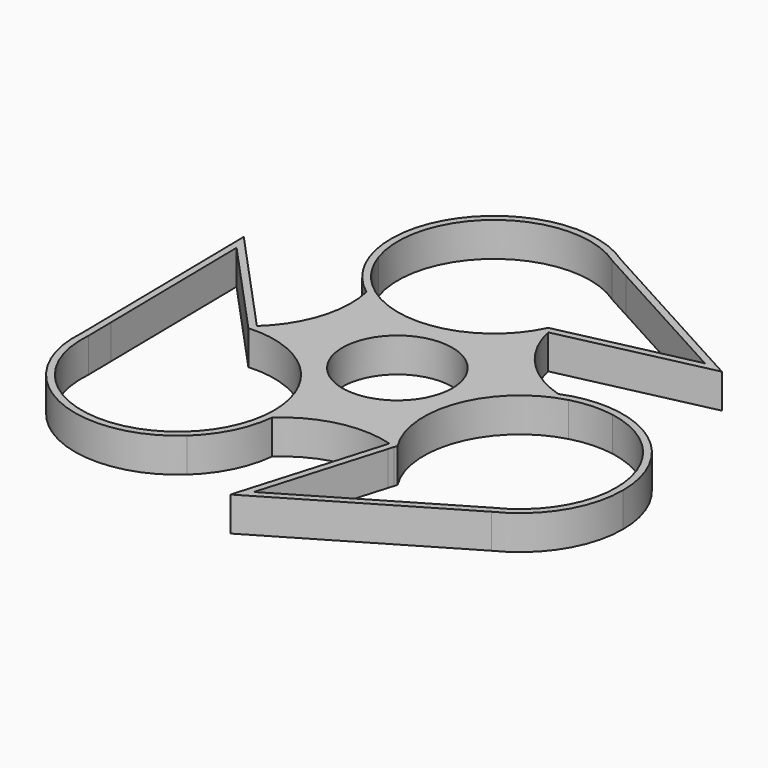
from build123d import *

# Parameters (mm, degrees)
F0_R     = 8
F1_DEPTH = 5


with BuildPart() as f1:
    # F0 (on Top) → F1 (new body)
    with BuildSketch(Plane.XY):
        with BuildLine():
            ThreePointArc((38.8490344373, -7.4982368866), (35.8718628785, 1.471244496), (28.1221549341, 6.8802345627))
            ThreePointArc((28.1221549341, 6.8802345627), (27.2226565904, 6.5535105265), (26.3041545683, 6.2848101329))
            ThreePointArc((26.3041545683, 6.2848101329), (34.5815011117, 1.4914326892), (37.8490344373, -7.4982368866))
            ThreePointArc((37.8490344373, -7.4982368866), (35.7302878123, -14.9033579686), (30.0153461175, -20.0671111506))
            Line((30.0153461175, -20.0671111506), (26.2122119316, -22.3109136241))
            ThreePointArc((26.2122119316, -22.3109136241), (28.4028713862, -21.790282543), (30.4909167926, -20.9476011385))
            ThreePointArc((30.4909167926, -20.9476011385), (36.5892902301, -15.41567854), (38.8490344373, -7.4982368866))
        make_face()
        with BuildLine():
            ThreePointArc((11.6354406408, -16.2061715771), (11.2656060513, -15.6626309275), (10.919943616, -15.1034068738))
            Line((10.919943616, -15.1034068738), (4.6527002207, -36.1918316662))
            Line((4.6527002207, -36.1918316662), (30.4909167926, -20.9476011385))
            ThreePointArc((30.4909167926, -20.9476011385), (28.4028713862, -21.790282543), (26.2122119316, -22.3109136241))
            Line((26.2122119316, -22.3109136241), (6.3361573488, -34.0375417836))
            Line((6.3361573488, -34.0375417836), (11.6354406408, -16.2061715771))
        make_face()
        with BuildLine():
            ThreePointArc((28.1221549341, 6.8802345627), (23.1634660922, 7.4860881247), (18.2808163885, 6.4299700246))
            ThreePointArc((18.2808163885, 6.4299700246), (19.2063911412, 6.1867474035), (20.1455918313, 6.0030413071))
            ThreePointArc((20.1455918313, 6.0030413071), (23.2091706485, 6.4871331239), (26.3041545683, 6.2848101329))
            ThreePointArc((26.3041545683, 6.2848101329), (27.2226565904, 6.5535105265), (28.1221549341, 6.8802345627))
        make_face()
        with BuildLine():
            ThreePointArc((11.8690019815, -15.4202693139), (11.397115524, -15.25392267), (10.919943616, -15.1034068738))
            ThreePointArc((10.919943616, -15.1034068738), (11.2656060513, -15.6626309275), (11.6354406408, -16.2061715771))
            Line((11.6354406408, -16.2061715771), (11.8690019815, -15.4202693139))
        make_face()
        with BuildLine():
            ThreePointArc((20.1455918313, 6.0030413071), (19.2063911412, 6.1867474035), (18.2808163885, 6.4299700246))
            ThreePointArc((18.2808163885, 6.4299700246), (9.655402449, -2.646349524), (10.919943616, -15.1034068738))
            ThreePointArc((10.919943616, -15.1034068738), (11.397115524, -15.25392267), (11.8690019815, -15.4202693139))
            Line((11.8690019815, -15.4202693139), (12.0049821529, -14.9627144628))
            ThreePointArc((12.0049821529, -14.9627144628), (10.7982920028, -2.4308784123), (20.1455918313, 6.0030413071))
        make_face()
        with BuildLine():
            Line((26.5784435042, 22.7285549449), (8.4393064839, 18.6917133525))
            ThreePointArc((8.4393064839, 18.6917133525), (8.1876964566, 18.1152942206), (7.9121440123, 17.5499293192))
            Line((7.9121440123, 17.5499293192), (29.3867735594, 22.3290804795))
            Line((29.3867735594, 22.3290804795), (3.0820072992, 36.7533403216))
            ThreePointArc((3.0820072992, 36.7533403216), (4.7192641816, 35.4472223277), (6.158636429, 33.9257881863))
            Line((6.158636429, 33.9257881863), (26.5784435042, 22.7285549449))
        make_face()
        with BuildLine():
            ThreePointArc((7.9121440123, 17.5499293192), (8.1876964566, 18.1152942206), (8.4393064839, 18.6917133525))
            Line((8.4393064839, 18.6917133525), (7.7274834193, 18.5332980458))
            ThreePointArc((7.7274834193, 18.5332980458), (7.8116121335, 18.0400735592), (7.9121440123, 17.5499293192))
        make_face()
        with BuildLine():
            ThreePointArc((-14.4218573571, 12.3962462122), (-2.0581580843, 9.7870747046), (7.9121440123, 17.5499293192))
            ThreePointArc((7.9121440123, 17.5499293192), (7.8116121335, 18.0400735592), (7.7274834193, 18.5332980458))
            Line((7.7274834193, 18.5332980458), (7.2272436675, 18.421970333))
            ThreePointArc((7.2272436675, 18.421970333), (-2.7467318854, 10.6627009825), (-14.907533277, 14.0980115505))
            ThreePointArc((-14.907533277, 14.0980115505), (-14.6395764677, 13.2542976843), (-14.4218573571, 12.3962462122))
        make_face()
        with BuildLine():
            Line((2.555704028, 35.9014618202), (6.158636429, 33.9257881863))
            ThreePointArc((6.158636429, 33.9257881863), (4.7192641816, 35.4472223277), (3.0820072992, 36.7533403216))
            ThreePointArc((3.0820072992, 36.7533403216), (-13.8153698815, 36.8408290348), (-20.0726464643, 21.144475967))
            ThreePointArc((-20.0726464643, 21.144475967), (-19.3800207125, 20.593183388), (-18.7211221359, 20.0019925512))
            ThreePointArc((-18.7211221359, 20.0019925512), (-13.8112245946, 35.6176830282), (2.555704028, 35.9014618202))
        make_face()
        with BuildLine():
            ThreePointArc((-20.0726464643, 21.144475967), (-18.0308595518, 16.2642013697), (-14.4218573571, 12.3962462122))
            ThreePointArc((-14.4218573571, 12.3962462122), (-14.6395764677, 13.2542976843), (-14.907533277, 14.0980115505))
            ThreePointArc((-14.907533277, 14.0980115505), (-17.1908591544, 16.8067871532), (-18.7211221359, 20.0019925512))
            ThreePointArc((-18.7211221359, 20.0019925512), (-19.3800207125, 20.593183388), (-20.0726464643, 21.144475967))
        make_face()
        with BuildLine():
            ThreePointArc((-8.275330105, -27.9556597428), (-5.0113342557, -23.6320437442), (-3.4960276219, -18.4309698155))
            ThreePointArc((-3.4960276219, -18.4309698155), (-4.1118905803, -19.0296020384), (-4.6924818025, -19.6625013626))
            ThreePointArc((-4.6924818025, -19.6625013626), (-5.9051240284, -23.183557577), (-8.003150447, -26.2603453792))
            ThreePointArc((-8.003150447, -26.2603453792), (-8.1635176407, -27.1041048739), (-8.275330105, -27.9556597428))
        make_face()
        with BuildLine():
            ThreePointArc((-32.4289424962, -11.5476477284), (-33.0476433207, -13.5913198261), (-33.3698936049, -15.7021350969))
            ThreePointArc((-33.3698936049, -15.7021350969), (-24.9998603459, -30.3836790472), (-8.275330105, -27.9556597428))
            ThreePointArc((-8.275330105, -27.9556597428), (-8.1635176407, -27.1041048739), (-8.003150447, -26.2603453792))
            ThreePointArc((-8.003150447, -26.2603453792), (-23.9694406728, -29.7571251146), (-32.3693101655, -15.7359951816))
            Line((-32.3693101655, -15.7359951816), (-32.4289424962, -11.5476477284))
        make_face()
        with BuildLine():
            ThreePointArc((-20.1895506368, -2.0097101454), (-19.5561991387, -1.947983056), (-18.9207994891, -1.9131744502))
            Line((-18.9207994891, -1.9131744502), (-33.796980576, 14.2948246944))
            Line((-33.796980576, 14.2948246944), (-33.3698936049, -15.7021350969))
            ThreePointArc((-33.3698936049, -15.7021350969), (-33.0476433207, -13.5913198261), (-32.4289424962, -11.5476477284))
            Line((-32.4289424962, -11.5476477284), (-32.7597333746, 11.6858418158))
            Line((-32.7597333746, 11.6858418158), (-20.1895506368, -2.0097101454))
        make_face()
        with BuildLine():
            ThreePointArc((-19.6800914911, -2.5647795781), (-19.2950109131, -2.2453097311), (-18.9207994891, -1.9131744502))
            ThreePointArc((-18.9207994891, -1.9131744502), (-19.5561991387, -1.947983056), (-20.1895506368, -2.0097101454))
            Line((-20.1895506368, -2.0097101454), (-19.6800914911, -2.5647795781))
        make_face()
        with BuildLine():
            ThreePointArc((-3.4181808461, -16.9047512351), (-7.9907957387, -6.1219111722), (-18.9207994891, -1.9131744502))
            ThreePointArc((-18.9207994891, -1.9131744502), (-19.2950109131, -2.2453097311), (-19.6800914911, -2.5647795781))
            Line((-19.6800914911, -2.5647795781), (-19.340160936, -2.9351430547))
            ThreePointArc((-19.340160936, -2.9351430547), (-8.8502061716, -6.6844840845), (-4.4181808461, -16.9047512351))
            ThreePointArc((-4.4181808461, -16.9047512351), (-4.4869248616, -18.2904303809), (-4.6924818025, -19.6625013626))
            ThreePointArc((-4.6924818025, -19.6625013626), (-4.1118905803, -19.0296020384), (-3.4960276219, -18.4309698155))
            ThreePointArc((-3.4960276219, -18.4309698155), (-3.4376551817, -17.6688525497), (-3.4181808461, -16.9047512351))
        make_face()
        with BuildLine():
            ThreePointArc((18.2808163885, 6.4299700246), (11.5832094425, 10.578918544), (7.9121440123, 17.5499293192))
            ThreePointArc((7.9121440123, 17.5499293192), (-2.0581580843, 9.7870747046), (-14.4218573571, 12.3962462122))
            ThreePointArc((-14.4218573571, 12.3962462122), (-14.7542295678, 4.6387919255), (-18.9207994891, -1.9131744502))
            ThreePointArc((-18.9207994891, -1.9131744502), (-7.9907957387, -6.1219111722), (-3.4181808461, -16.9047512351))
            ThreePointArc((-3.4181808461, -16.9047512351), (-3.4376551817, -17.6688525497), (-3.4960276219, -18.4309698155))
            ThreePointArc((-3.4960276219, -18.4309698155), (3.2731601147, -14.8661881946), (10.919943616, -15.1034068738))
            ThreePointArc((10.919943616, -15.1034068738), (9.655402449, -2.646349524), (18.2808163885, 6.4299700246))
        make_face()
        Circle(F0_R, mode=Mode.SUBTRACT)
    extrude(amount=F1_DEPTH)


solid = f1.part
